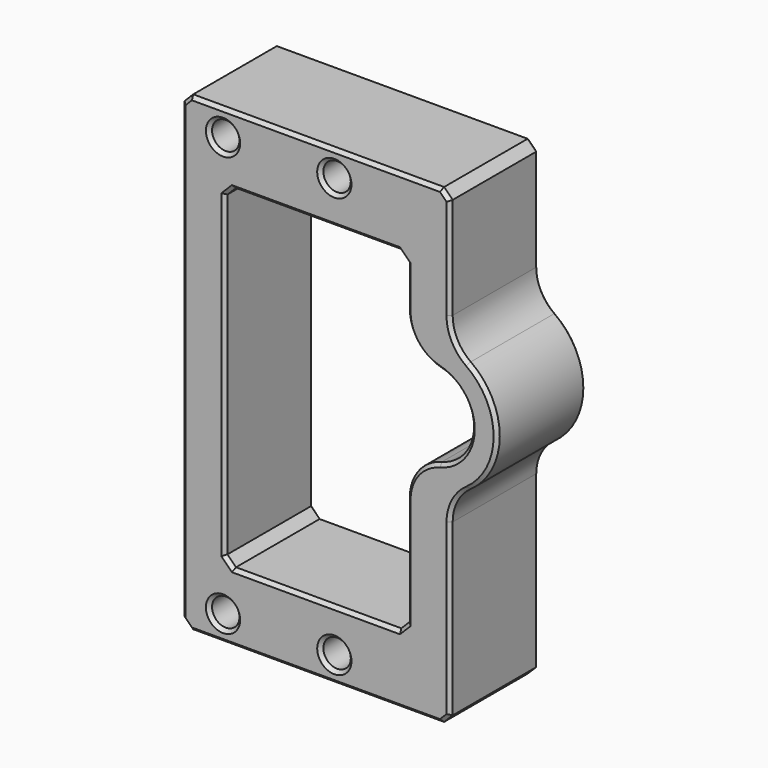
from build123d import *

# Parameters (mm, degrees)
SKETCH151_R     = 1.6
PAD085_DEPTH    = 13
CHAMFER055_SIZE = 1
FILLET050_R     = 5
CHAMFER061_SIZE = 0.4


with BuildPart() as part:
    # Sketch151 → Pad085 (new body)
    with BuildSketch(Plane.XZ):
        with BuildLine():
            Line((-11.3, 27.5), (20, 27.5))
            Line((20, 11.599342), (20, 27.5))
            ThreePointArc((20, -3.599342), (25.5, 4), (20, 11.599342))
            Line((20, -27.5), (20, -3.599342))
            Line((20, -27.5), (-11.3, -27.5))
            Line((-11.3, -27.5), (-11.3, 27.5))
        make_face()
        with Locations((-6.5, 24.5)):
            Circle(SKETCH151_R, mode=Mode.SUBTRACT)
        with Locations((6.5, 24.5)):
            Circle(SKETCH151_R, mode=Mode.SUBTRACT)
        with Locations((-6.5, -24.5)):
            Circle(SKETCH151_R, mode=Mode.SUBTRACT)
        with Locations((6.5, -24.5)):
            Circle(SKETCH151_R, mode=Mode.SUBTRACT)
        with BuildLine():
            Line((-6.3, 19.5), (15, 19.5))
            Line((15, 8.330127), (15, 19.5))
            ThreePointArc((15, -0.330127), (22.5, 4), (15, 8.330127))
            Line((15, -19.5), (15, -0.330127))
            Line((15, -19.5), (-6.3, -19.5))
            Line((-6.3, -19.5), (-6.3, 19.5))
        make_face(mode=Mode.SUBTRACT)
    extrude(amount=PAD085_DEPTH)

    # Chamfer055
    chamfer055_edges = [part.edges().sort_by_distance(p)[0] for p in [
        (-11.3, -6.5, -27.5),
        (20, -6.5, -27.5),
        (-11.3, -6.5, 27.5),
        (20, -6.5, 27.5),
        (-6.3, -6.5, 19.5),
        (-6.3, -6.5, -19.5),
        (15, -6.5, -19.5),
        (15, -6.5, 19.5),
    ]]
    chamfer(chamfer055_edges, length=CHAMFER055_SIZE)

    # Fillet050
    fillet050_edges = [part.edges().sort_by_distance(p)[0] for p in [
        (15, -6.5, 8.330127),
        (15, -6.5, -0.330127),
        (20, -6.5, -3.599342),
        (20, -6.5, 11.599342),
    ]]
    fillet(fillet050_edges, radius=FILLET050_R)

    # Chamfer061
    chamfer061_edges = [part.edges().sort_by_distance(p)[0] for p in [
        (16.047153, -13, 10.620596),
        (16.047153, 0, 10.620596),
        (14.5, -13, 19),
        (4.35, -13, 19.5),
        (-5.8, -13, 19),
        (-6.3, -13, 0),
        (-5.8, -13, -19),
        (4.35, -13, -19.5),
        (14.5, -13, -19),
        (14.5, 0, -19),
        (4.35, 0, -19.5),
        (-5.8, 0, -19),
        (-6.3, 0, 0),
        (-5.8, 0, 19),
        (4.35, 0, 19.5),
        (14.5, 0, 19),
        (-11.3, -13, 0),
        (-10.8, -13, 27),
        (4.35, -13, 27.5),
        (19.5, -13, 27),
        (20, -13, 20.55919),
        (19.5, -13, -27),
        (4.35, -13, -27.5),
        (-10.8, -13, -27),
        (-11.3, 0, 0),
        (-10.8, 0, 27),
        (4.35, 0, 27.5),
        (20, 0, 20.55919),
        (19.5, 0, 27),
        (19.5, 0, -27),
        (-10.8, 0, -27),
        (4.35, 0, -27.5),
        (-8.1, 0, 24.5),
        (4.9, 0, 24.5),
        (4.9, -13, 24.5),
        (-8.1, -13, 24.5),
        (4.9, 0, -24.5),
        (-8.1, 0, -24.5),
        (-8.1, -13, -24.5),
        (4.9, -13, -24.5),
    ]]
    chamfer(chamfer061_edges, length=CHAMFER061_SIZE)


with BuildPart() as part_1:
    # Body073 placement: moved
    add(part.part.moved(Location((-10, 10, 233))))


solid = part_1.part
